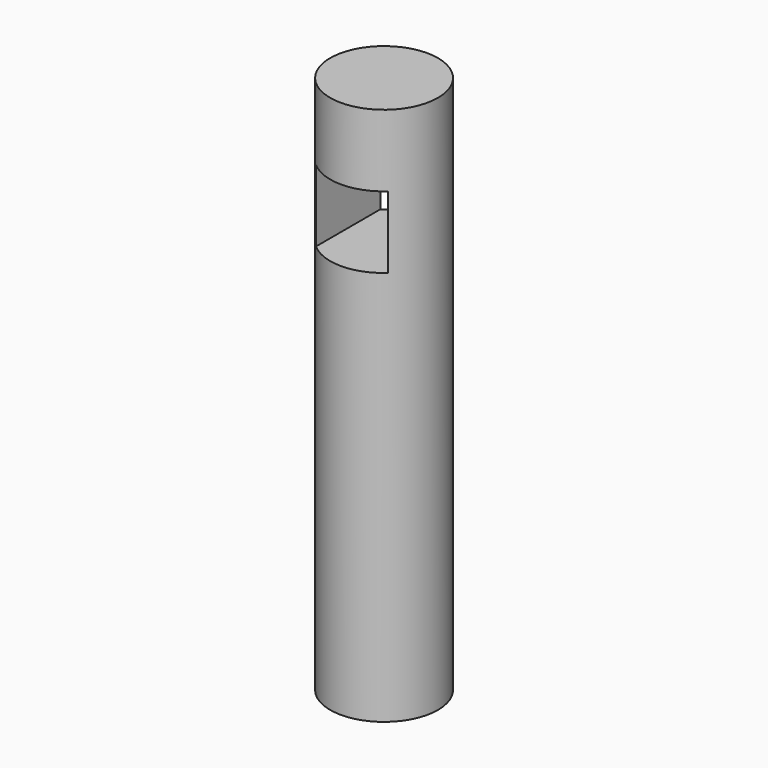
from build123d import *

# Parameters (mm, degrees)
F0_R     = 15
F1_DEPTH = 150
F2_W     = 20
F2_H     = 20
F3_DEPTH = 100


with BuildPart() as f1:
    # F0 (on Top) → F1 (new body)
    with BuildSketch(Plane.XY):
        Circle(F0_R)
    extrude(amount=F1_DEPTH)

    # F2 (on Front) → F3 (cut, symmetric)
    with BuildSketch(Plane.XZ):
        with Locations((0, 120)):
            Rectangle(F2_W, F2_H)
    extrude(amount=F3_DEPTH, both=True, mode=Mode.SUBTRACT)


solid = f1.part
